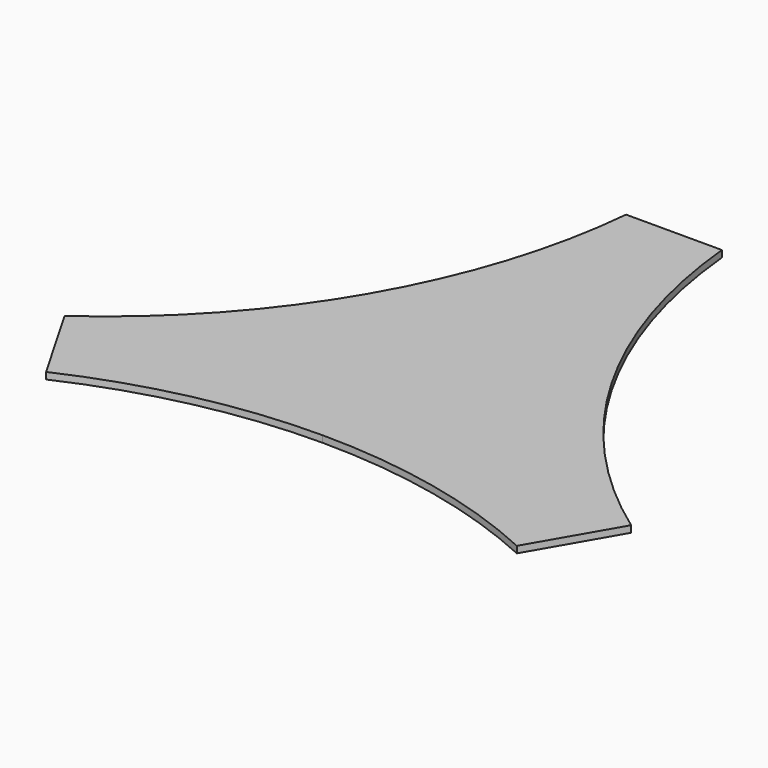
from build123d import *

# Parameters (mm, degrees)
PAD002_DEPTH               = 2
PAD002_MIRRORED004_2_DEPTH = 2
POLARPATTERN004_COUNT      = 3


with BuildPart() as part:
    # Sketch012 → Pad002 (new body)
    with BuildSketch(Plane.XY):
        with BuildLine():
            Line((0, 0), (36.418579, 21.026276))
            ThreePointArc((14.4, 90), (21.694701, 54.327325), (36.418579, 21.026276))
            Line((14.4, 90), (0, 90))
            Line((0, 90), (0, 0))
        make_face()
    pad002 = extrude(amount=PAD002_DEPTH)

    # Sketch012 Mirrored004 2 → Pad002 Mirrored004 2 (add)
    with BuildSketch(Plane(origin=(0, 0, 0), x_dir=(-1, 0, 0), z_dir=(0, 0, -1))):
        with BuildLine():
            Line((0, 0), (36.418579, 21.026276))
            ThreePointArc((14.4, 90), (21.694701, 54.327325), (36.418579, 21.026276))
            Line((14.4, 90), (0, 90))
            Line((0, 90), (0, 0))
        make_face()
    pad002_mirrored004_2 = extrude(amount=-PAD002_MIRRORED004_2_DEPTH)

    # PolarPattern004: Pad002, Pad002 Mirrored004 2 ×3 about axis
    polarpattern004_axis = Axis((0, 0, 0), (0, 0, 1))
    for i in range(1, POLARPATTERN004_COUNT):
        add(pad002.rotate(polarpattern004_axis, i * 360 / POLARPATTERN004_COUNT))
        add(pad002_mirrored004_2.rotate(polarpattern004_axis, i * 360 / POLARPATTERN004_COUNT))


solid = part.part
